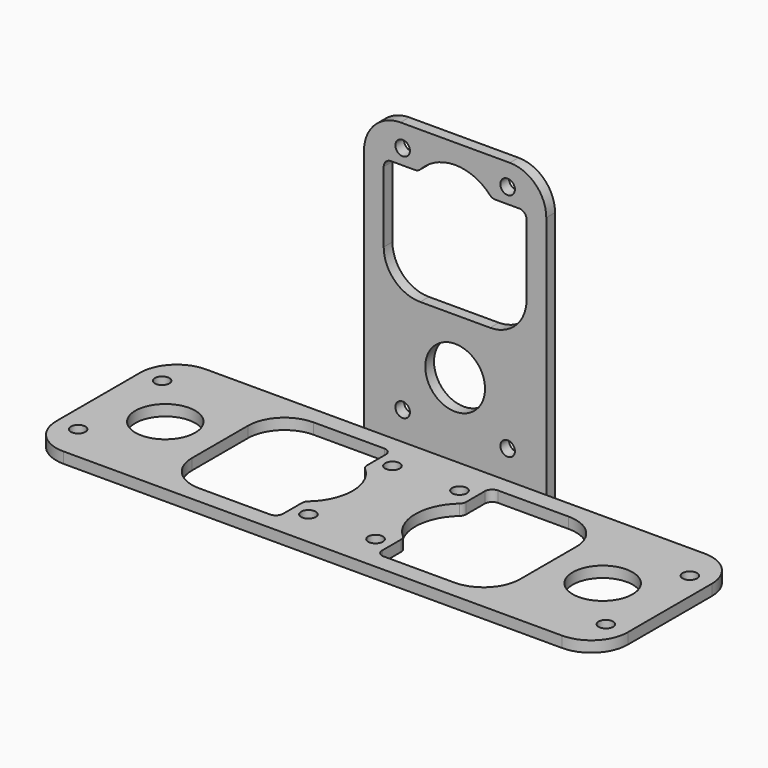
from build123d import *

# Parameters (mm, degrees)
F0_W     = 78.4
F0_H     = 24.4
F0_R     = 1
F0_R_2   = 4.1
F1_DEPTH = 1.5
F2_W     = 25
F2_H     = 1.5
F3_DEPTH = 40
F4_R     = 1
F4_R_2   = 4.1
F5_DEPTH = 1.5
F6_R     = 5


with BuildPart() as f1:
    # F0 (on Top) → F1 (new body)
    with BuildSketch(Plane.XY):
        Rectangle(F0_W, F0_H)
        with Locations((-36.2, -7.2)):
            Circle(F0_R, mode=Mode.SUBTRACT)
        with Locations((-4.6, -7.2)):
            Circle(F0_R, mode=Mode.SUBTRACT)
        with Locations((4.6, -7.2)):
            Circle(F0_R, mode=Mode.SUBTRACT)
        with Locations((36.2, -7.2)):
            Circle(F0_R, mode=Mode.SUBTRACT)
        with Locations((-30, 0)):
            Circle(F0_R_2, mode=Mode.SUBTRACT)
        with BuildLine():
            ThreePointArc((-22.5, 4.8), (-21.035534, 8.335534), (-17.5, 9.8))
            Line((-17.5, 9.8), (-7.8, 9.8))
            ThreePointArc((-7.8, 9.8), (-7.092893, 9.507107), (-6.8, 8.8))
            Line((-6.8, 8.8), (-6.8, 5.59017))
            ThreePointArc((-6.8, 5.59017), (-6.712871, 5.181922), (-6.466667, 4.844814))
            ThreePointArc((-6.466667, 4.844814), (-4.3, 0), (-6.466667, -4.844814))
            ThreePointArc((-6.466667, -4.844814), (-6.712871, -5.181922), (-6.8, -5.59017))
            Line((-6.8, -5.59017), (-6.8, -8.8))
            ThreePointArc((-6.8, -8.8), (-7.092893, -9.507107), (-7.8, -9.8))
            Line((-7.8, -9.8), (-17.5, -9.8))
            ThreePointArc((-17.5, -9.8), (-21.035534, -8.335534), (-22.5, -4.8))
            Line((-22.5, -4.8), (-22.5, 4.8))
        make_face(mode=Mode.SUBTRACT)
        with Locations((-36.2, 7.2)):
            Circle(F0_R, mode=Mode.SUBTRACT)
        with Locations((-4.6, 7.2)):
            Circle(F0_R, mode=Mode.SUBTRACT)
        with BuildLine():
            Line((6.8, 5.59017), (6.8, 8.8))
            ThreePointArc((6.8, 8.8), (7.092893, 9.507107), (7.8, 9.8))
            Line((7.8, 9.8), (17.5, 9.8))
            ThreePointArc((17.5, 9.8), (21.035534, 8.335534), (22.5, 4.8))
            Line((22.5, 4.8), (22.5, -4.8))
            ThreePointArc((22.5, -4.8), (21.035534, -8.335534), (17.5, -9.8))
            Line((17.5, -9.8), (7.8, -9.8))
            ThreePointArc((7.8, -9.8), (7.092893, -9.507107), (6.8, -8.8))
            Line((6.8, -8.8), (6.8, -5.59017))
            ThreePointArc((6.8, -5.59017), (6.712871, -5.181922), (6.466667, -4.844814))
            ThreePointArc((6.466667, -4.844814), (4.3, 0), (6.466667, 4.844814))
            ThreePointArc((6.466667, 4.844814), (6.712871, 5.181922), (6.8, 5.59017))
        make_face(mode=Mode.SUBTRACT)
        with Locations((30, 0)):
            Circle(F0_R_2, mode=Mode.SUBTRACT)
        with Locations((4.6, 7.2)):
            Circle(F0_R, mode=Mode.SUBTRACT)
        with Locations((36.2, 7.2)):
            Circle(F0_R, mode=Mode.SUBTRACT)
    extrude(amount=F1_DEPTH)

    # F2 (on Top) → F3 (join)
    with BuildSketch(Plane.XY):
        with Locations((0, 12.95)):
            Rectangle(F2_W, F2_H)
    extrude(amount=F3_DEPTH)

    # F4 (on face) → F5 (cut, through all)
    with BuildSketch(Plane(origin=(0, 13.7, 0), x_dir=(-1, 0, 0), z_dir=(0, 1, 0))):
        with Locations((7.2, 37)):
            Circle(F4_R)
        with Locations((7.2, 5.4)):
            Circle(F4_R)
        with Locations((0, 11.6)):
            Circle(F4_R_2)
        with BuildLine():
            ThreePointArc((9.8, 33.9), (9.507107, 34.607107), (8.8, 34.9))
            Line((8.8, 34.9), (5.499091, 34.9))
            ThreePointArc((5.499091, 34.9), (5.099091, 34.983485), (4.765879, 35.22))
            ThreePointArc((4.765879, 35.22), (0, 37.3), (-4.765879, 35.22))
            ThreePointArc((-4.765879, 35.22), (-5.099091, 34.983485), (-5.499091, 34.9))
            Line((-5.499091, 34.9), (-8.8, 34.9))
            ThreePointArc((-8.8, 34.9), (-9.507107, 34.607107), (-9.8, 33.9))
            Line((-9.8, 33.9), (-9.8, 24.2))
            ThreePointArc((-9.8, 24.2), (-8.335534, 20.664466), (-4.8, 19.2))
            Line((-4.8, 19.2), (4.8, 19.2))
            ThreePointArc((4.8, 19.2), (8.335534, 20.664466), (9.8, 24.2))
            Line((9.8, 24.2), (9.8, 33.9))
        make_face()
        with Locations((-7.2, 37)):
            Circle(F4_R)
        with Locations((-7.2, 5.4)):
            Circle(F4_R)
    extrude(amount=-F5_DEPTH, mode=Mode.SUBTRACT)

    # F6
    f6_edges = [f1.edges().sort_by_distance(p)[0] for p in [
        (-39.2, 12.2, 0.75),
        (-39.2, -12.2, 0.75),
        (39.2, 12.2, 0.75),
        (39.2, -12.2, 0.75),
        (-12.5, 12.95, 40),
        (12.5, 12.95, 40),
    ]]
    fillet(f6_edges, radius=F6_R)


solid = f1.part
